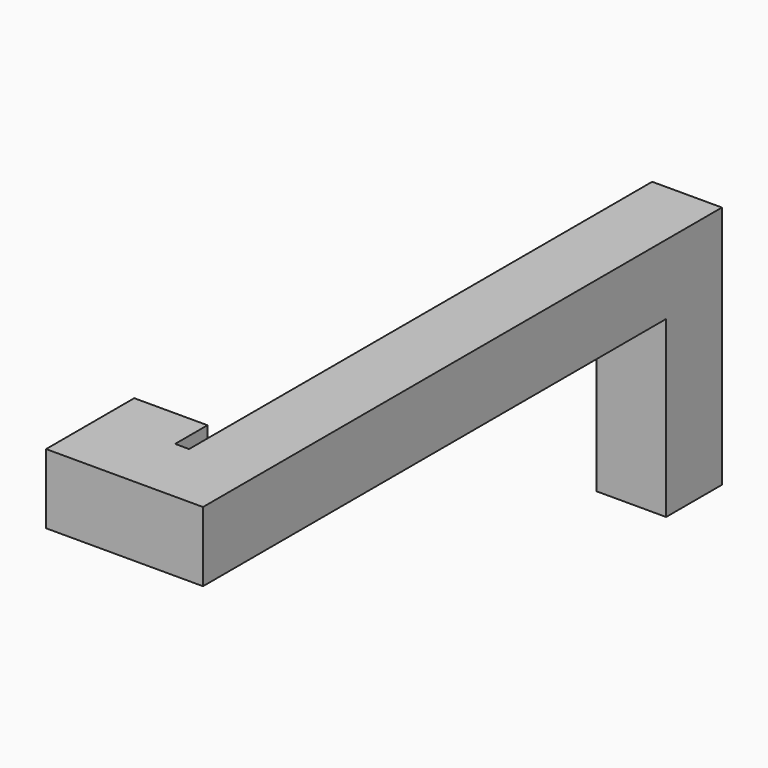
from build123d import *

# Parameters (mm, degrees)
F1_DEPTH = 5
F2_W     = 10
F2_H     = 10
F3_DEPTH = 25


with BuildPart() as f1:
    # F0 (on Top) → F1 (new body, symmetric)
    with BuildSketch(Plane.XY):
        Polygon((22.5, 0), (22.5, 93), (12.5, 93), (12.5, 10), (10.5, 10), (10.5, 15.8), (0, 15.8), (0, 0), align=None)
    extrude(amount=F1_DEPTH, both=True)

    # F2 (on face) → F3 (join)
    with BuildSketch(Plane(origin=(0, 0, -5), x_dir=(1, 0, 0), z_dir=(0, 0, -1))):
        with Locations((17.5, -88)):
            Rectangle(F2_W, F2_H)
    extrude(amount=F3_DEPTH)


solid = f1.part
